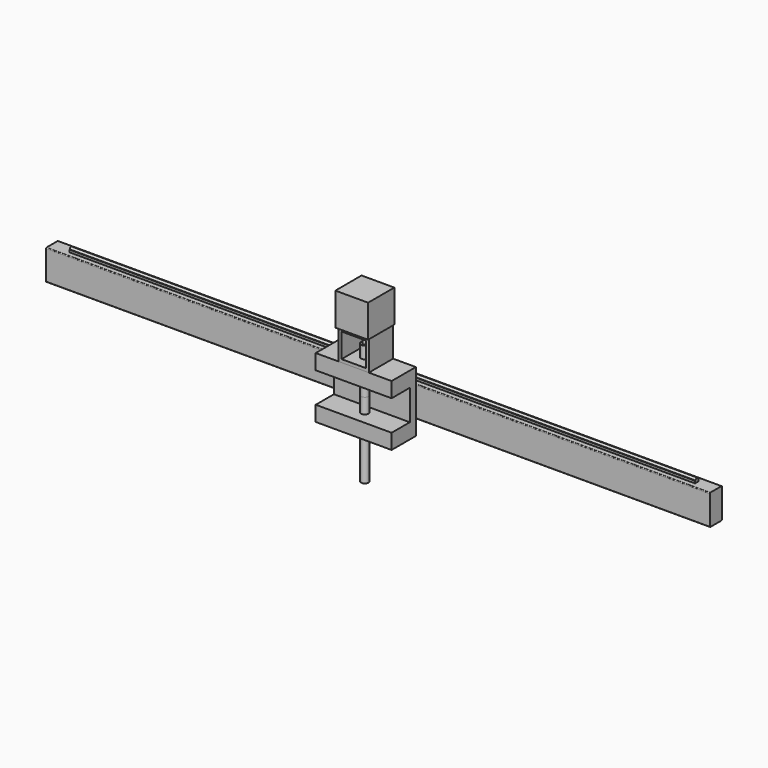
from build123d import *

# Parameters (mm, degrees)
F2_DEPTH      = 437.5
F3_DEPTH      = 412.5
F1_W          = 10
F1_H          = 80
F4_DEPTH      = 50
F5_W          = 40
F5_H          = 40
F5_W_2        = 32
F5_H_2        = 32
F6_DEPTH      = 40
F8_R          = 5
F9_DEPTH      = 100
F9_DEPTH_BACK = 60
F7_W          = 43.18
F7_H          = 43.18
F7_R          = 2.5
F10_DEPTH     = 43
F11_DEPTH     = 20
F12_W         = 100
F12_H         = 20
F13_DEPTH     = 30


with BuildPart() as f2:
    # F0 (on Right) → F2 (new body, symmetric)
    with BuildSketch(Plane.YZ):
        with BuildLine():
            Line((-3, 20), (-9, 20))
            ThreePointArc((-9, 20), (-9.7071067812, 19.7071067812), (-10, 19))
            Line((-10, 19), (-10, -19))
            ThreePointArc((-10, -19), (-9.7071067812, -19.7071067812), (-9, -20))
            Line((-9, -20), (-3, -20))
            Line((-3, -20), (3, -20))
            Line((3, -20), (9, -20))
            ThreePointArc((9, -20), (9.7071067812, -19.7071067812), (10, -19))
            Line((10, -19), (10, 19))
            ThreePointArc((10, 19), (9.7071067812, 19.7071067812), (9, 20))
            Line((9, 20), (3, 20))
            Line((3, 20), (-3, 20))
        make_face()
    extrude(amount=F2_DEPTH, both=True)


with BuildPart() as f3:
    # F0 (on Right) → F3 (new body, symmetric)
    with BuildSketch(Plane.YZ):
        with BuildLine():
            ThreePointArc((2.2231295841, 23), (0, 25.2231295841), (-2.2231295841, 23))
            Line((-2.2231295841, 23), (2.2231295841, 23))
        make_face()
        with BuildLine():
            Line((2.2231295841, 23), (-2.2231295841, 23))
            ThreePointArc((-2.2231295841, 23), (0, 20.7768704159), (2.2231295841, 23))
        make_face()
        with BuildLine():
            Line((-3, 23), (-3, 20))
            Line((-3, 20), (3, 20))
            Line((3, 20), (3, 23))
            Line((3, 23), (2.2231295841, 23))
            ThreePointArc((2.2231295841, 23), (0, 20.7768704159), (-2.2231295841, 23))
            Line((-2.2231295841, 23), (-3, 23))
        make_face()
    extrude(amount=F3_DEPTH, both=True)


with BuildPart() as f3b:
    # F0 (on Right) → F3, piece 2 (new body, symmetric)
    with BuildSketch(Plane.YZ):
        with BuildLine():
            Line((2.2231295841, -23), (-2.2231295841, -23))
            ThreePointArc((-2.2231295841, -23), (0, -25.2231295841), (2.2231295841, -23))
        make_face()
        with BuildLine():
            Line((3, -20), (-3, -20))
            Line((-3, -20), (-3, -23))
            Line((-3, -23), (-2.2231295841, -23))
            ThreePointArc((-2.2231295841, -23), (0, -20.7768704159), (2.2231295841, -23))
            Line((2.2231295841, -23), (3, -23))
            Line((3, -23), (3, -20))
        make_face()
        with BuildLine():
            ThreePointArc((2.2231295841, -23), (0, -20.7768704159), (-2.2231295841, -23))
            Line((-2.2231295841, -23), (2.2231295841, -23))
        make_face()
    extrude(amount=F3_DEPTH, both=True)


with BuildPart() as f4:
    # F1 (on Right) → F4 (new body, symmetric)
    with BuildSketch(Plane.YZ):
        with Locations((-15, 0)):
            Rectangle(F1_W, F1_H)
    extrude(amount=F4_DEPTH, both=True)

    # F12 (on face) → F13 (join)
    with BuildSketch(Plane.XZ.offset(20)):
        with Locations((0, 30)):
            Rectangle(F12_W, F12_H)
        with Locations((0, -30)):
            Rectangle(F12_W, F12_H)
    extrude(amount=F13_DEPTH)


with BuildPart() as f6:
    # F5 (on face) → F6 (new body)
    with BuildSketch(Plane(origin=(0, -10, 0), x_dir=(-1, 0, 0), z_dir=(0, 1, 0))):
        with Locations((0, 60)):
            Rectangle(F5_W, F5_H)
        with Locations((0, 60)):
            Rectangle(F5_W_2, F5_H_2, mode=Mode.SUBTRACT)
    extrude(amount=-F6_DEPTH)


with BuildPart() as f9:
    # F8 (on Top) → F9 (new body, two sides)
    with BuildSketch(Plane.XY) as f9_sk:
        with Locations((0, -31.59)):
            Circle(F8_R)
    extrude(amount=-F9_DEPTH)
    extrude(f9_sk.sketch, amount=F9_DEPTH_BACK)


with BuildPart() as f10:
    # F7 (on face) → F10 (new body)
    with BuildSketch(Plane.XY.offset(80)):
        with Locations((0, -31.59)):
            Rectangle(F7_W, F7_H)
        with Locations((0, -31.59)):
            Circle(F7_R, mode=Mode.SUBTRACT)
        with Locations((0, -31.59)):
            Circle(F7_R)
    extrude(amount=F10_DEPTH)

    # F7 (on face) → F11 (join)
    with BuildSketch(Plane.XY.offset(80)):
        with Locations((0, -31.59)):
            Circle(F7_R)
    extrude(amount=-F11_DEPTH)


solid = Compound([f2.part, f3.part, f3b.part, f4.part, f6.part, f9.part, f10.part])
